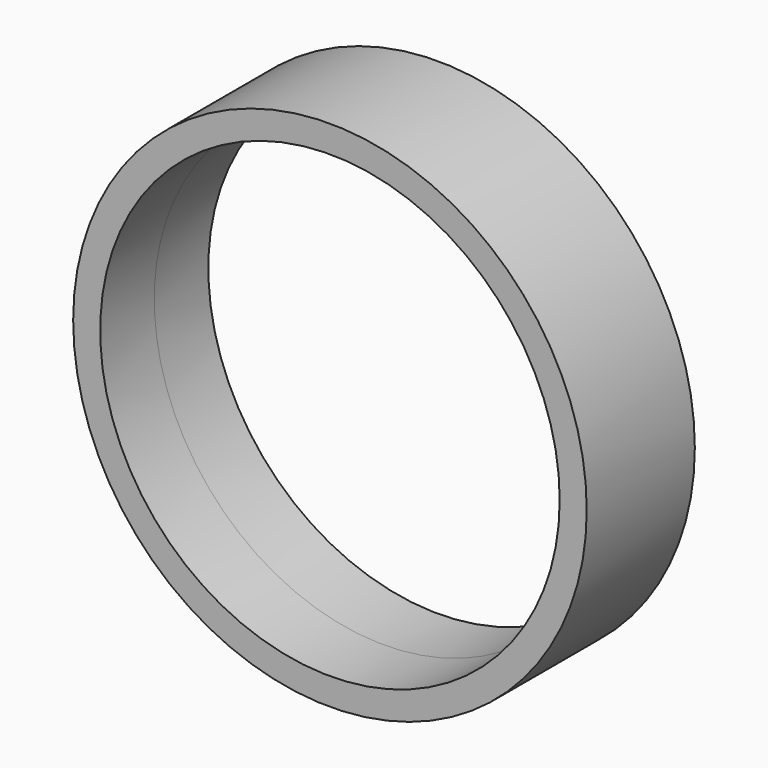
from build123d import *

# Parameters (mm, degrees)
F2_R          = 19
F2_R_2        = 17
F3_DEPTH      = 5
F3_DEPTH_BACK = 5


with BuildPart() as f3:
    # F2 (on offset) → F3 (new body, two sides)
    with BuildSketch(Plane.XZ.offset(50)) as f3_sk:
        with Locations((30, 30)):
            Circle(F2_R)
        with Locations((30, 30)):
            Circle(F2_R_2, mode=Mode.SUBTRACT)
    extrude(amount=F3_DEPTH)
    extrude(f3_sk.sketch, amount=-F3_DEPTH_BACK)


solid = f3.part
